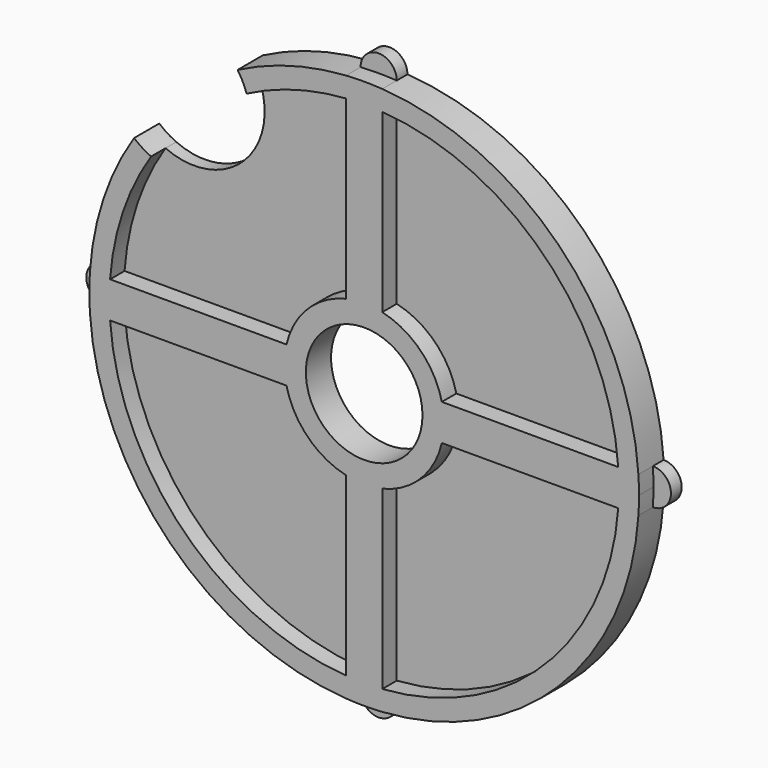
from build123d import *

# Parameters (mm, degrees)
F0_R     = 4.35
F1_DEPTH = 2.35
F2_DEPTH = 1


with BuildPart() as f1:
    # F0 (on Front) → F1 (new body)
    with BuildSketch(Plane.XZ):
        with BuildLine():
            ThreePointArc((18.951979, 1.35), (18.987991, 0.675427), (19, 0))
            ThreePointArc((19, 0), (18.987991, -0.675427), (18.951979, -1.35))
            ThreePointArc((18.951979, -1.35), (13.435029, -13.435029), (1.35, -18.951979))
            ThreePointArc((1.35, -18.951979), (0, -19), (-1.35, -18.951979))
            ThreePointArc((-1.35, -18.951979), (-13.435029, -13.435029), (-18.951979, -1.35))
            ThreePointArc((-18.951979, -1.35), (-19, 0), (-18.951979, 1.35))
            ThreePointArc((-18.951979, 1.35), (-18.002767, 6.074569), (-15.895465, 10.408371))
            ThreePointArc((-15.895465, 10.408371), (-16.558319, 10.763563), (-17.163626, 11.209815))
            ThreePointArc((-17.163626, 11.209815), (-19.444888, 6.492022), (-20.4555, 1.35))
            ThreePointArc((-20.4555, 1.35), (-20.5, 0), (-20.4555, -1.35))
            ThreePointArc((-20.4555, -1.35), (-14.495689, -14.495689), (-1.35, -20.4555))
            ThreePointArc((-1.35, -20.4555), (0, -20.5), (1.35, -20.4555))
            ThreePointArc((1.35, -20.4555), (14.495689, -14.495689), (20.4555, -1.35))
            ThreePointArc((20.4555, -1.35), (20.488872, -0.675367), (20.5, 0))
            ThreePointArc((20.5, 0), (20.488872, 0.675367), (20.4555, 1.35))
            ThreePointArc((20.4555, 1.35), (14.495689, 14.495689), (1.35, 20.4555))
            ThreePointArc((1.35, 20.4555), (0, 20.5), (-1.35, 20.4555))
            ThreePointArc((-1.35, 20.4555), (-5.512738, 19.744866), (-9.441543, 18.196353))
            ThreePointArc((-9.441543, 18.196353), (-9.057906, 17.549546), (-8.770617, 16.854563))
            ThreePointArc((-8.770617, 16.854563), (-5.167834, 18.283695), (-1.35, 18.951979))
            ThreePointArc((-1.35, 18.951979), (0, 19), (1.35, 18.951979))
            ThreePointArc((1.35, 18.951979), (13.435029, 13.435029), (18.951979, 1.35))
        make_face()
        with BuildLine():
            ThreePointArc((5.95, 0), (5.911079, 0.679444), (5.794825, 1.35))
            ThreePointArc((5.794825, 1.35), (4.207285, 4.207285), (1.35, 5.794825))
            ThreePointArc((1.35, 5.794825), (0, 5.95), (-1.35, 5.794825))
            ThreePointArc((-1.35, 5.794825), (-4.207285, 4.207285), (-5.794825, 1.35))
            ThreePointArc((-5.794825, 1.35), (-5.95, 0), (-5.794825, -1.35))
            ThreePointArc((-5.794825, -1.35), (-4.207285, -4.207285), (-1.35, -5.794825))
            ThreePointArc((-1.35, -5.794825), (0, -5.95), (1.35, -5.794825))
            ThreePointArc((1.35, -5.794825), (4.207285, -4.207285), (5.794825, -1.35))
            ThreePointArc((5.794825, -1.35), (5.911079, -0.679444), (5.95, 0))
        make_face()
        Circle(F0_R, mode=Mode.SUBTRACT)
        with BuildLine():
            ThreePointArc((-18.951979, 1.35), (-19, 0), (-18.951979, -1.35))
            Line((-18.951979, -1.35), (-5.794825, -1.35))
            ThreePointArc((-5.794825, -1.35), (-5.95, 0), (-5.794825, 1.35))
            Line((-5.794825, 1.35), (-18.951979, 1.35))
        make_face()
        with BuildLine():
            Line((1.35, 5.794825), (1.35, 18.951979))
            ThreePointArc((1.35, 18.951979), (0, 19), (-1.35, 18.951979))
            Line((-1.35, 18.951979), (-1.35, 5.794825))
            ThreePointArc((-1.35, 5.794825), (0, 5.95), (1.35, 5.794825))
        make_face()
        with BuildLine():
            ThreePointArc((18.951979, -1.35), (18.987991, -0.675427), (19, 0))
            ThreePointArc((19, 0), (18.987991, 0.675427), (18.951979, 1.35))
            Line((18.951979, 1.35), (5.794825, 1.35))
            ThreePointArc((5.794825, 1.35), (5.911079, 0.679444), (5.95, 0))
            ThreePointArc((5.95, 0), (5.911079, -0.679444), (5.794825, -1.35))
            Line((5.794825, -1.35), (18.951979, -1.35))
        make_face()
        with BuildLine():
            ThreePointArc((-1.35, -18.951979), (0, -19), (1.35, -18.951979))
            Line((1.35, -18.951979), (1.35, -5.794825))
            ThreePointArc((1.35, -5.794825), (0, -5.95), (-1.35, -5.794825))
            Line((-1.35, -5.794825), (-1.35, -18.951979))
        make_face()
    extrude(amount=F1_DEPTH)

    # F0 (on Front) → F2 (join)
    with BuildSketch(Plane.XZ):
        with BuildLine():
            Line((-1.35, 5.794825), (-1.35, 18.951979))
            ThreePointArc((-1.35, 18.951979), (-5.167834, 18.283695), (-8.770617, 16.854563))
            ThreePointArc((-8.770617, 16.854563), (-10.231341, 11.308499), (-15.895465, 10.408371))
            ThreePointArc((-15.895465, 10.408371), (-18.002767, 6.074569), (-18.951979, 1.35))
            Line((-18.951979, 1.35), (-5.794825, 1.35))
            ThreePointArc((-5.794825, 1.35), (-4.207285, 4.207285), (-1.35, 5.794825))
        make_face()
        with BuildLine():
            Line((5.794825, 1.35), (18.951979, 1.35))
            ThreePointArc((18.951979, 1.35), (13.435029, 13.435029), (1.35, 18.951979))
            Line((1.35, 18.951979), (1.35, 5.794825))
            ThreePointArc((1.35, 5.794825), (4.207285, 4.207285), (5.794825, 1.35))
        make_face()
        with BuildLine():
            ThreePointArc((1.35, -18.951979), (13.435029, -13.435029), (18.951979, -1.35))
            Line((18.951979, -1.35), (5.794825, -1.35))
            ThreePointArc((5.794825, -1.35), (4.207285, -4.207285), (1.35, -5.794825))
            Line((1.35, -5.794825), (1.35, -18.951979))
        make_face()
        with BuildLine():
            ThreePointArc((-18.951979, -1.35), (-13.435029, -13.435029), (-1.35, -18.951979))
            Line((-1.35, -18.951979), (-1.35, -5.794825))
            ThreePointArc((-1.35, -5.794825), (-4.207285, -4.207285), (-5.794825, -1.35))
            Line((-5.794825, -1.35), (-18.951979, -1.35))
        make_face()
        with BuildLine():
            ThreePointArc((-20.4555, -1.35), (-20.5, 0), (-20.4555, 1.35))
            ThreePointArc((-20.4555, 1.35), (-21.8055, 0), (-20.4555, -1.35))
        make_face()
        with BuildLine():
            ThreePointArc((1.35, 20.4555), (0, 21.8055), (-1.35, 20.4555))
            ThreePointArc((-1.35, 20.4555), (0, 20.5), (1.35, 20.4555))
        make_face()
        with BuildLine():
            ThreePointArc((20.4555, -1.35), (21.8055, 0), (20.4555, 1.35))
            ThreePointArc((20.4555, 1.35), (20.488872, 0.675367), (20.5, 0))
            ThreePointArc((20.5, 0), (20.488872, -0.675367), (20.4555, -1.35))
        make_face()
        with BuildLine():
            ThreePointArc((1.35, -20.4555), (0, -20.5), (-1.35, -20.4555))
            ThreePointArc((-1.35, -20.4555), (0, -21.8055), (1.35, -20.4555))
        make_face()
    extrude(amount=F2_DEPTH)


solid = f1.part
